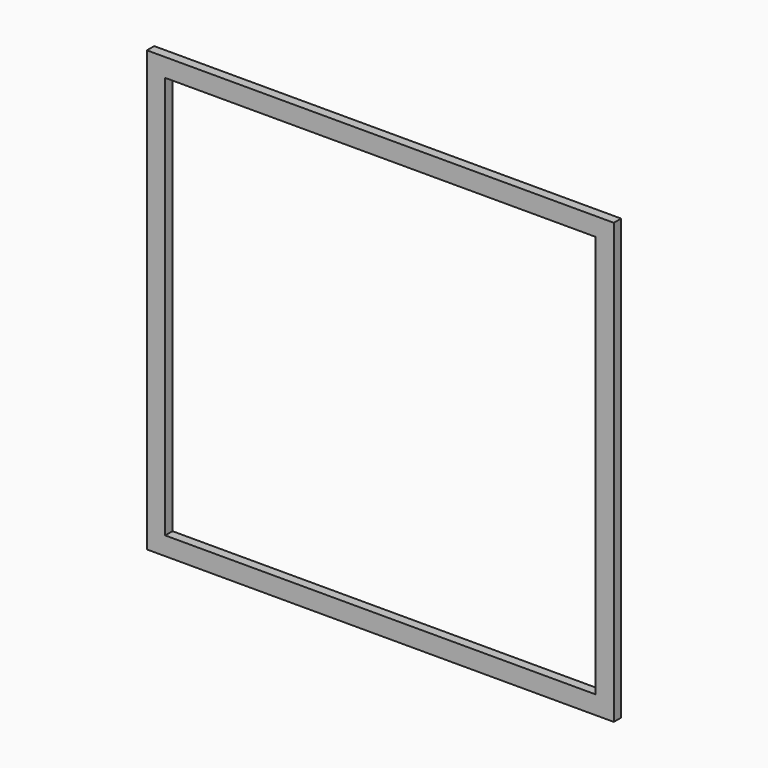
from build123d import *

# Parameters (mm, degrees)
F0_W     = 2590.8
F0_H     = 2438.4
F0_W_2   = 2387.6
F0_H_2   = 2235.2
F1_DEPTH = 50.8


with BuildPart() as f1:
    # F0 (on Front) → F1 (new body)
    with BuildSketch(Plane.XZ):
        with Locations((1193.8, 1117.6)):
            Rectangle(F0_W, F0_H)
        with Locations((1193.8, 1117.6)):
            Rectangle(F0_W_2, F0_H_2, mode=Mode.SUBTRACT)
    extrude(amount=-F1_DEPTH)


solid = f1.part
